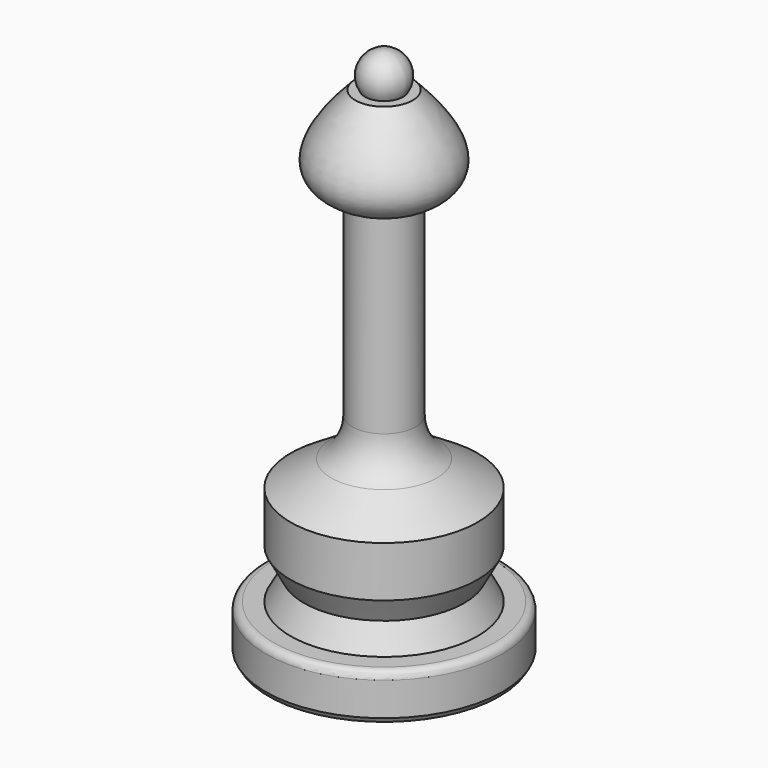
from build123d import *


with BuildPart() as f1:
    # F0 (on Front) → F1 (revolve)
    with BuildSketch(Plane.XZ):
        with BuildLine():
            Line((0, 0), (15.367, 0))
            Line((15.367, 0), (15.748, 0.635))
            Line((15.748, 0.635), (15.748, 5.08))
            ThreePointArc((15.748, 5.08), (15.45042, 5.79842), (14.732, 6.096))
            Line((14.732, 6.096), (12.446, 6.096))
            Line((12.446, 6.096), (10.668, 9.398))
            Line((10.668, 9.398), (12.446, 12.7))
            Line((12.446, 12.7), (12.446, 19.431787))
            Line((12.446, 19.431787), (7.029734, 22.86))
            ThreePointArc((7.029734, 22.86), (4.978415, 25.04052), (4.233034, 27.94))
            Line((4.233034, 27.94), (4.233034, 53.34))
            add(Edge.make_bspline(
                [(4.233034, 53.34), (11.16613, 55.681616), (9.459599, 60.209075), (3.81, 66.04)],
                knots=[0, 0, 0, 0, 12.707044, 12.707044, 12.707044, 12.707044], degree=3))
            Line((3.81, 66.04), (2.54, 66.04))
            ThreePointArc((2.54, 66.04), (2.685676, 69.166181), (0, 70.772845))
            Line((0, 70.772845), (0, 66.04))
            Line((0, 66.04), (0, 0))
        make_face()
    revolve(axis=Axis((0, 0, 33.02), (0, 0, 1)))


solid = f1.part
